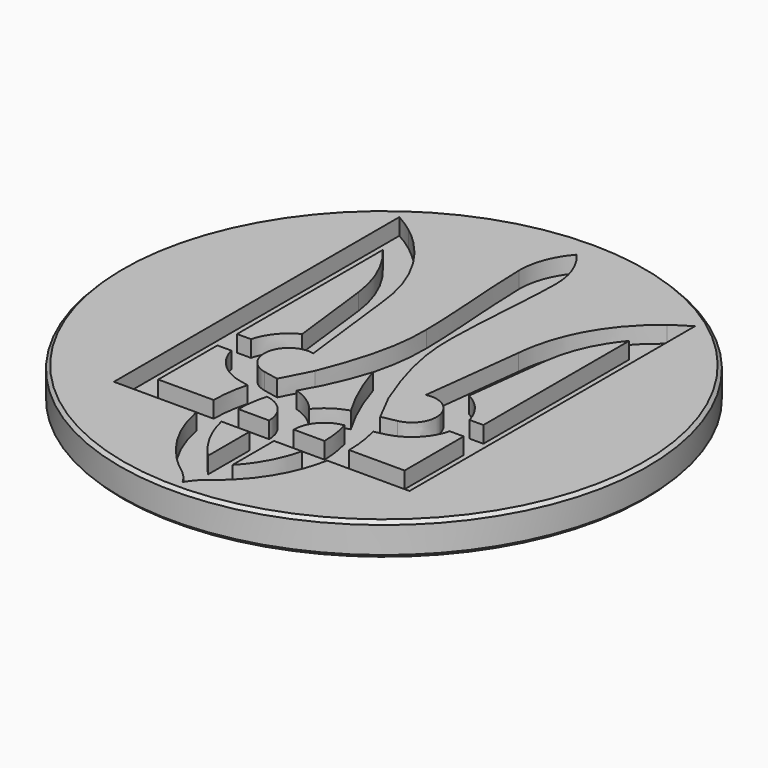
from build123d import *

# Parameters (mm, degrees)
POCKET_DEPTH = 1.25


with BuildPart() as part:
    # Sketch (on DatumPlane) → Revolution (revolve)
    with BuildSketch(Plane.YZ):
        Polygon((0, 0), (0, -2.5), (19.75, -2.5), (20, -2.25), (20, -0.25), (19.75, 0), align=None)
    revolve(axis=Axis((0, 0, 0), (0, 0, 1)))

    # Sketch005 → Pocket (cut)
    with BuildSketch(Plane.XY):
        with BuildLine():
            add(Edge.make_bspline(
                [(0.05007, 18.187905), (-0.819711, 17.201079), (-1.34975, 15.909322), (-1.34975, 14.491488)],
                knots=[0, 0, 0, 0, 1, 1, 1, 1], degree=3))
            add(Edge.make_bspline(
                [(-1.34975, 14.491488), (-1.298209, 11.378352), (-0.91631, 8.271538), (-0.883145, 5.159335)],
                knots=[0, 0, 0, 0, 1, 1, 1, 1], degree=3))
            add(Edge.make_bspline(
                [(-0.883145, 5.159335), (-0.814103, 2.258834), (-1.684267, -0.465434), (-2.742284, -3.122954)],
                knots=[0, 0, 0, 0, 1, 1, 1, 1], degree=3))
            add(Edge.make_bspline(
                [(-2.742284, -3.122954), (-3.094831, -3.857321), (-3.476181, -4.576105), (-3.857769, -5.295589)],
                knots=[0, 0, 0, 0, 1, 1, 1, 1], degree=3))
            add(Edge.make_bspline(
                [(-3.857769, -5.295589), (-4.980542, -5.069568)],
                knots=[0, 0, 5.967846, 5.967846], degree=1))
            add(Edge.make_bspline(
                [(-4.980542, -5.069568), (-5.990819, -4.867591), (-6.647965, -3.885344), (-6.445984, -2.875066)],
                knots=[0, 0, 0, 0, 1, 1, 1, 1], degree=3))
            add(Edge.make_bspline(
                [(-6.445984, -2.875066), (-6.269244, -1.991078), (-5.491181, -1.377229), (-4.623291, -1.37317)],
                knots=[0, 0, 0, 0, 1, 1, 1, 1], degree=3))
            add(Edge.make_bspline(
                [(-4.623291, -1.37317), (-4.215012, -1.416916)],
                knots=[0, 0, 2.139617, 2.139617], degree=1))
            add(Edge.make_bspline(
                [(-4.215012, -1.416916), (-5.126361, 6.19462)],
                knots=[0, 0, 39.945062, 39.945062], degree=1))
            add(Edge.make_bspline(
                [(-5.126361, 6.19462), (-5.424238, 9.584081), (-7.172909, 12.557166), (-9.74869, 14.491488)],
                knots=[0, 0, 0, 0, 1, 1, 1, 1], degree=3))
            add(Edge.make_bspline(
                [(-9.74869, 14.491488), (-10.191331, 14.823898), (-10.660329, 15.1278), (-11.148511, 15.395539)],
                knots=[0, 0, 0, 0, 1, 1, 1, 1], degree=3))
            add(Edge.make_bspline(
                [(-11.148511, 15.395539), (-11.148511, -11.638539)],
                knots=[0, 0, 140.86771, 140.86771], degree=1))
            add(Edge.make_bspline(
                [(-11.148511, -11.638539), (-4.907636, -11.638539)],
                knots=[0, 0, 32.51961, 32.51961], degree=1))
            add(Edge.make_bspline(
                [(-4.907636, -11.638539), (-4.440999, -14.171707), (-3.046857, -16.378546), (-1.087287, -17.894001)],
                knots=[0, 0, 0, 0, 1, 1, 1, 1], degree=3))
            add(Edge.make_bspline(
                [(-1.087287, -17.894001), (-0.621171, -18.215256), (-0.230742, -18.638956), (0.05007, -19.133424)],
                knots=[0, 0, 0, 0, 1, 1, 1, 1], degree=3))
            add(Edge.make_bspline(
                [(0.05007, -19.133424), (0.330877, -18.638956), (0.721312, -18.215256), (1.187428, -17.894001)],
                knots=[0, 0, 0, 0, 1, 1, 1, 1], degree=3))
            add(Edge.make_bspline(
                [(1.187428, -17.894001), (3.146994, -16.378546), (4.54114, -14.171707), (5.007772, -11.638539)],
                knots=[0, 0, 0, 0, 1, 1, 1, 1], degree=3))
            add(Edge.make_bspline(
                [(5.007772, -11.638539), (11.248652, -11.638539)],
                knots=[0, 0, 32.51964, 32.51964], degree=1))
            add(Edge.make_bspline(
                [(11.248652, -11.638539), (11.248652, 15.395539)],
                knots=[0, 0, 140.86771, 140.86771], degree=1))
            add(Edge.make_bspline(
                [(11.248652, 15.395539), (10.760464, 15.1278), (10.291468, 14.823898), (9.848831, 14.491488)],
                knots=[0, 0, 0, 0, 1, 1, 1, 1], degree=3))
            add(Edge.make_bspline(
                [(9.848831, 14.491488), (7.273046, 12.557166), (5.524373, 9.584081), (5.226498, 6.19462)],
                knots=[0, 0, 0, 0, 1, 1, 1, 1], degree=3))
            add(Edge.make_bspline(
                [(5.226498, 6.19462), (4.315155, -1.416916)],
                knots=[0, 0, 39.945059, 39.945059], degree=1))
            add(Edge.make_bspline(
                [(4.315155, -1.416916), (4.723436, -1.37317)],
                knots=[0, 0, 2.139627, 2.139627], degree=1))
            add(Edge.make_bspline(
                [(4.723436, -1.37317), (5.591321, -1.377258), (6.369383, -1.991078), (6.546125, -2.875066)],
                knots=[0, 0, 0, 0, 1, 1, 1, 1], degree=3))
            add(Edge.make_bspline(
                [(6.546125, -2.875066), (6.748106, -3.885344), (6.09096, -4.867591), (5.080682, -5.069568)],
                knots=[0, 0, 0, 0, 1, 1, 1, 1], degree=3))
            add(Edge.make_bspline(
                [(5.080682, -5.069568), (3.957908, -5.295589)],
                knots=[0, 0, 5.967856, 5.967856], degree=1))
            add(Edge.make_bspline(
                [(3.957908, -5.295589), (3.576322, -4.576105), (3.194972, -3.857321), (2.842429, -3.122954)],
                knots=[0, 0, 0, 0, 1, 1, 1, 1], degree=3))
            add(Edge.make_bspline(
                [(2.842429, -3.122954), (1.784402, -0.465434), (0.914235, 2.258834), (0.983286, 5.159335)],
                knots=[0, 0, 0, 0, 1, 1, 1, 1], degree=3))
            add(Edge.make_bspline(
                [(0.983286, 5.159335), (1.016443, 8.271538), (1.39835, 11.378352), (1.449891, 14.491488)],
                knots=[0, 0, 0, 0, 1, 1, 1, 1], degree=3))
            add(Edge.make_bspline(
                [(1.449891, 14.491488), (1.449891, 15.909322), (0.919856, 17.201079), (0.05007, 18.187905)],
                knots=[0, 0, 0, 0, 1, 1, 1, 1], degree=3))
        make_face()
        with BuildLine():
            add(Edge.make_bspline(
                [(-9.282085, 11.502281), (-8.074254, 10.084751), (-7.263645, 8.318291), (-7.021954, 6.376901)],
                knots=[0, 0, 0, 0, 1, 1, 1, 1], degree=3))
            add(Edge.make_bspline(
                [(-7.021954, 6.376901), (-6.271004, 0.099562)],
                knots=[0, 0, 32.942843, 32.942843], degree=1))
            add(Edge.make_bspline(
                [(-6.271004, 0.099562), (-7.22722, -0.376476), (-7.952111, -1.249802), (-8.224926, -2.306382)],
                knots=[0, 0, 0, 0, 1, 1, 1, 1], degree=3))
            add(Edge.make_bspline(
                [(-8.224926, -2.306382), (-9.282085, -2.306382)],
                knots=[0, 0, 5.50859, 5.50859], degree=1))
            add(Edge.make_bspline(
                [(-9.282085, -2.306382), (-9.282085, 11.502281)],
                knots=[0, 0, 71.95343, 71.95343], degree=1))
        make_face(mode=Mode.SUBTRACT)
        with BuildLine():
            add(Edge.make_bspline(
                [(9.382224, 11.502281), (9.382224, -2.306382)],
                knots=[0, 0, 71.95343, 71.95343], degree=1))
            add(Edge.make_bspline(
                [(9.382224, -2.306382), (8.325063, -2.306382)],
                knots=[0, 0, 5.5086, 5.5086], degree=1))
            add(Edge.make_bspline(
                [(8.325063, -2.306382), (8.052255, -1.249802), (7.327355, -0.376476), (6.371145, 0.099562)],
                knots=[0, 0, 0, 0, 1, 1, 1, 1], degree=3))
            add(Edge.make_bspline(
                [(6.371145, 0.099562), (7.122087, 6.376901)],
                knots=[0, 0, 32.942838, 32.942838], degree=1))
            add(Edge.make_bspline(
                [(7.122087, 6.376901), (7.363786, 8.318291), (8.174391, 10.084751), (9.382224, 11.502281)],
                knots=[0, 0, 0, 0, 1, 1, 1, 1], degree=3))
        make_face(mode=Mode.SUBTRACT)
        with BuildLine():
            add(Edge.make_bspline(
                [(0.05007, -1.117984), (0.551431, -2.757805), (1.241209, -4.314922), (2.09877, -5.7622)],
                knots=[0, 0, 0, 0, 1, 1, 1, 1], degree=3))
            add(Edge.make_bspline(
                [(2.09877, -5.7622), (1.28309, -6.009994), (0.573182, -6.491977), (0.05007, -7.140137)],
                knots=[0, 0, 0, 0, 1, 1, 1, 1], degree=3))
            add(Edge.make_bspline(
                [(0.05007, -7.140137), (-0.473047, -6.491977), (-1.182949, -6.009994), (-1.998631, -5.7622)],
                knots=[0, 0, 0, 0, 1, 1, 1, 1], degree=3))
            add(Edge.make_bspline(
                [(-1.998631, -5.7622), (-1.14106, -4.314922), (-0.45129, -2.757805), (0.05007, -1.117984)],
                knots=[0, 0, 0, 0, 1, 1, 1, 1], degree=3))
        make_face(mode=Mode.SUBTRACT)
        with BuildLine():
            add(Edge.make_bspline(
                [(-9.282085, -4.172821), (-8.224926, -4.172821)],
                knots=[0, 0, 5.50859, 5.50859], degree=1))
            add(Edge.make_bspline(
                [(-8.224926, -4.172821), (-7.891616, -5.460892), (-6.885987, -6.478627), (-5.607548, -6.833928)],
                knots=[0, 0, 0, 0, 1, 1, 1, 1], degree=3))
            add(Edge.make_bspline(
                [(-5.607548, -6.833928), (-4.710786, -7.038069)],
                knots=[0, 0, 4.792346, 4.792346], degree=1))
            add(Edge.make_bspline(
                [(-4.710786, -7.038069), (-4.950907, -7.908547), (-5.082617, -8.825693), (-5.082617, -9.77211)],
                knots=[0, 0, 0, 0, 1, 1, 1, 1], degree=3))
            add(Edge.make_bspline(
                [(-5.082617, -9.77211), (-9.282085, -9.77211)],
                knots=[0, 0, 21.88236, 21.88236], degree=1))
            add(Edge.make_bspline(
                [(-9.282085, -9.77211), (-9.282085, -4.172821)],
                knots=[0, 0, 29.17647, 29.17647], degree=1))
        make_face(mode=Mode.SUBTRACT)
        with BuildLine():
            add(Edge.make_bspline(
                [(8.325063, -4.172821), (9.382224, -4.172821)],
                knots=[0, 0, 5.5086, 5.5086], degree=1))
            add(Edge.make_bspline(
                [(9.382224, -4.172821), (9.382224, -9.77211)],
                knots=[0, 0, 29.17647, 29.17647], degree=1))
            add(Edge.make_bspline(
                [(9.382224, -9.77211), (5.182754, -9.77211)],
                knots=[0, 0, 21.88237, 21.88237], degree=1))
            add(Edge.make_bspline(
                [(5.182754, -9.77211), (5.182754, -8.825693), (5.051044, -7.908547), (4.810926, -7.038069)],
                knots=[0, 0, 0, 0, 1, 1, 1, 1], degree=3))
            add(Edge.make_bspline(
                [(4.810926, -7.038069), (5.707689, -6.833928)],
                knots=[0, 0, 4.792346, 4.792346], degree=1))
            add(Edge.make_bspline(
                [(5.707689, -6.833928), (6.986128, -6.478627), (7.991755, -5.460892), (8.325063, -4.172821)],
                knots=[0, 0, 0, 0, 1, 1, 1, 1], degree=3))
        make_face(mode=Mode.SUBTRACT)
        with BuildLine():
            add(Edge.make_bspline(
                [(-2.888096, -7.468234), (-1.755882, -7.628254), (-0.883145, -8.595956), (-0.883145, -9.77211)],
                knots=[0, 0, 0, 0, 1, 1, 1, 1], degree=3))
            add(Edge.make_bspline(
                [(-0.883145, -9.77211), (-3.216182, -9.77211)],
                knots=[0, 0, 12.15686, 12.15686], degree=1))
            add(Edge.make_bspline(
                [(-3.216182, -9.77211), (-3.216182, -8.972038), (-3.097669, -8.20102), (-2.888096, -7.468234)],
                knots=[0, 0, 0, 0, 1, 1, 1, 1], degree=3))
        make_face(mode=Mode.SUBTRACT)
        with BuildLine():
            add(Edge.make_bspline(
                [(2.988241, -7.468234), (3.19781, -8.20102), (3.316319, -8.972038), (3.316319, -9.77211)],
                knots=[0, 0, 0, 0, 1, 1, 1, 1], degree=3))
            add(Edge.make_bspline(
                [(3.316319, -9.77211), (0.983286, -9.77211)],
                knots=[0, 0, 12.15684, 12.15684], degree=1))
            add(Edge.make_bspline(
                [(0.983286, -9.77211), (0.983286, -8.595956), (1.856021, -7.628254), (2.988241, -7.468234)],
                knots=[0, 0, 0, 0, 1, 1, 1, 1], degree=3))
        make_face(mode=Mode.SUBTRACT)
        with BuildLine():
            add(Edge.make_bspline(
                [(-3.004751, -11.638539), (-0.883145, -11.638539)],
                knots=[0, 0, 11.05515, 11.05515], degree=1))
            add(Edge.make_bspline(
                [(-0.883145, -11.638539), (-0.883145, -15.56824)],
                knots=[0, 0, 20.47667, 20.47667], degree=1))
            add(Edge.make_bspline(
                [(-0.883145, -15.56824), (-1.912775, -14.491843), (-2.660741, -13.14025), (-3.004751, -11.638539)],
                knots=[0, 0, 0, 0, 1, 1, 1, 1], degree=3))
        make_face(mode=Mode.SUBTRACT)
        with BuildLine():
            add(Edge.make_bspline(
                [(0.983286, -11.638539), (3.104892, -11.638539)],
                knots=[0, 0, 11.05515, 11.05515], degree=1))
            add(Edge.make_bspline(
                [(3.104892, -11.638539), (2.760876, -13.14025), (2.012912, -14.491843), (0.983286, -15.56824)],
                knots=[0, 0, 0, 0, 1, 1, 1, 1], degree=3))
            add(Edge.make_bspline(
                [(0.983286, -15.56824), (0.983286, -11.638539)],
                knots=[0, 0, 20.47667, 20.47667], degree=1))
        make_face(mode=Mode.SUBTRACT)
    extrude(amount=-POCKET_DEPTH, mode=Mode.SUBTRACT)


solid = part.part
